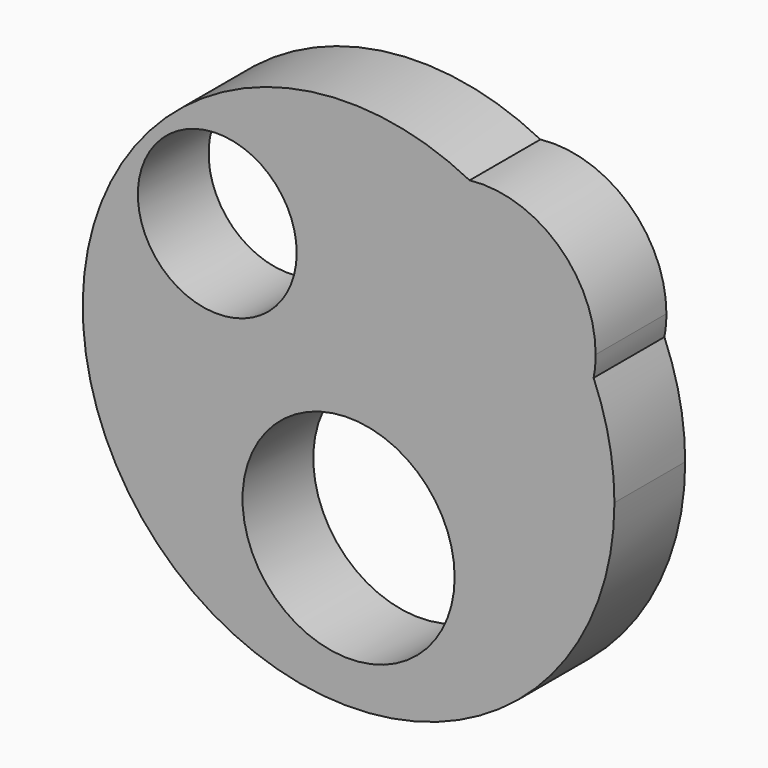
from build123d import *

# Parameters (mm, degrees)
F0_R     = 30.4525354722
F0_R_2   = 22.8057209723
F1_DEPTH = 25.4


with BuildPart() as f1:
    # F0 (on Front) → F1 (new body)
    with BuildSketch(Plane.XZ):
        with BuildLine():
            ThreePointArc((34.7540433633, 67.9645592268), (-65.1151789532, -39.8376494146), (76.3349516342, 0))
            ThreePointArc((76.3349516342, 0), (74.8271764936, 15.0969698611), (70.3634145045, 29.5975461864))
            ThreePointArc((70.3634145045, 29.5975461864), (14.6333627682, 13.5815849232), (34.7540433633, 67.9645592268))
        make_face()
        with Locations((0, -33.781696111)):
            Circle(F0_R, mode=Mode.SUBTRACT)
        with Locations((-37.7048142254, 33.4554687142)):
            Circle(F0_R_2, mode=Mode.SUBTRACT)
        with BuildLine():
            ThreePointArc((34.7540433633, 67.9645592268), (14.6333627682, 13.5815849232), (70.3634145045, 29.5975461864))
            ThreePointArc((70.3634145045, 29.5975461864), (55.9502181368, 51.9287774884), (34.7540433633, 67.9645592268))
        make_face()
        with BuildLine():
            ThreePointArc((34.7540433633, 67.9645592268), (55.9502181368, 51.9287774884), (70.3634145045, 29.5975461864))
            ThreePointArc((70.3634145045, 29.5975461864), (70.7945209473, 32.627374973), (70.9386493271, 35.684324801))
            ThreePointArc((70.9386493271, 35.684324801), (60.0769725299, 59.9296297245), (34.7540433633, 67.9645592268))
        make_face()
    extrude(amount=F1_DEPTH)


solid = f1.part
